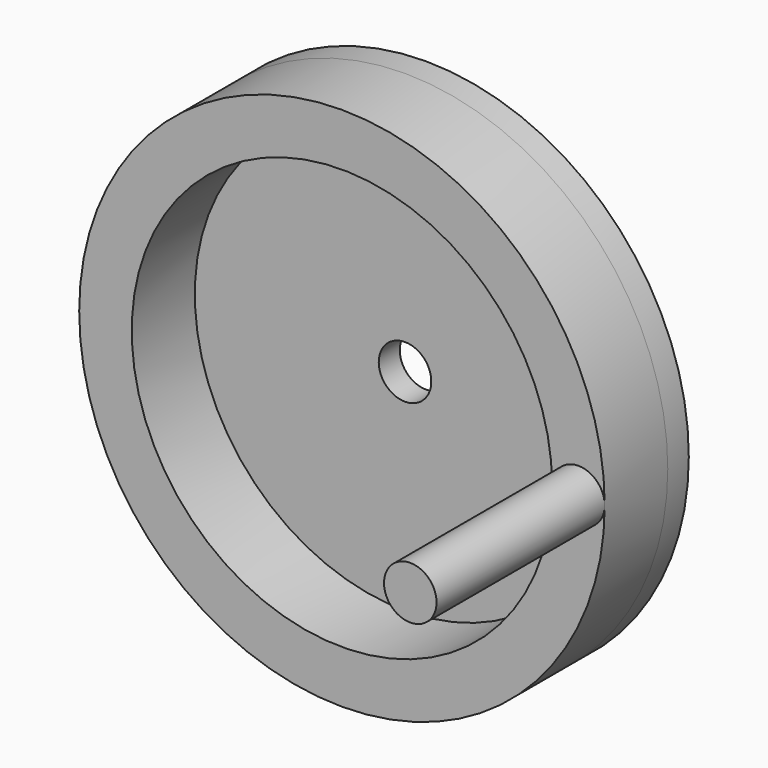
from build123d import *

# Parameters (mm, degrees)
F0_R     = 50
F0_R_2   = 40
F1_DEPTH = 15
F2_R     = 50
F2_R_2   = 5
F3_DEPTH = 5
F4_R     = 5
F5_DEPTH = 40


with BuildPart() as f1:
    # F0 (on Front) → F1 (new body)
    with BuildSketch(Plane.XZ):
        Circle(F0_R)
        Circle(F0_R_2, mode=Mode.SUBTRACT)
    extrude(amount=F1_DEPTH)

    # F2 (on face) → F3 (join)
    with BuildSketch(Plane(origin=(0, 0, 0), x_dir=(-1, 0, 0), z_dir=(0, 1, 0))):
        Circle(F2_R)
        Circle(F2_R_2, mode=Mode.SUBTRACT)
    extrude(amount=F3_DEPTH)

    # F4 (on face) → F5 (join)
    with BuildSketch(Plane.XZ.offset(15)):
        with Locations((45, 0)):
            Circle(F4_R)
    extrude(amount=F5_DEPTH)


solid = f1.part
